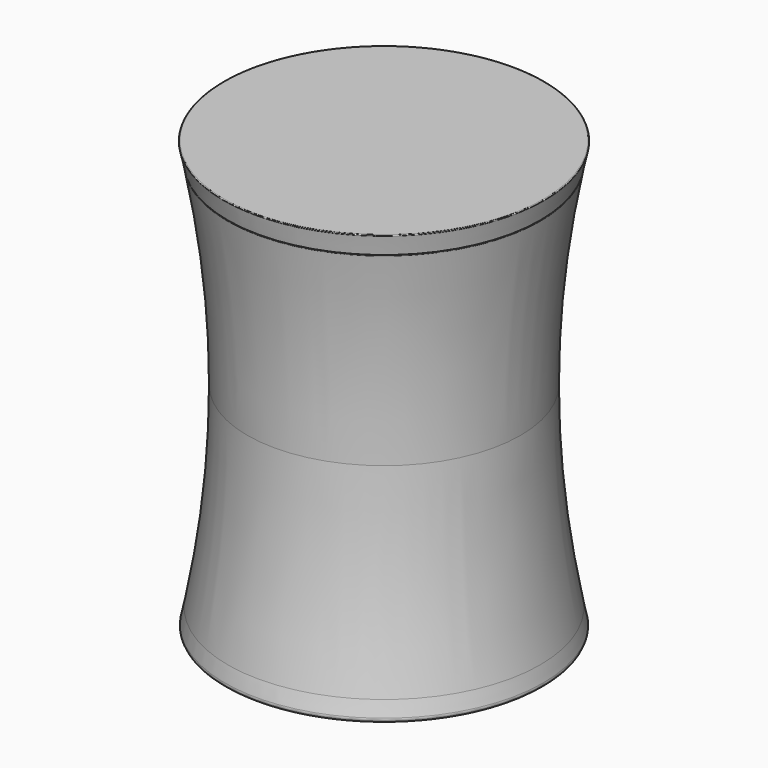
from build123d import *

# Parameters (mm, degrees)
F3_R   = 1.27
F3_2_R = 1.27
F4_R   = 0.254
F4_2_R = 0.254


with BuildPart() as f1:
    # F0 (on Front) → F1 (revolve)
    with BuildSketch(Plane.XZ):
        with BuildLine():
            ThreePointArc((-298.5270153843, 63.5), (-293.7684644137, 31.9083550971), (-292.1770153843, 0))
            ThreePointArc((-292.1770153843, 0), (-293.7684644137, -31.9083550971), (-298.5270153843, -63.5))
            Line((-298.5270153843, -63.5), (-292.0512974534, -63.5))
            ThreePointArc((-292.0512974534, -63.5), (-287.3868057179, -31.9021617107), (-285.8270153843, 0))
            ThreePointArc((-285.8270153843, 0), (-287.3868057179, 31.9021617107), (-292.0512974534, 63.5))
            Line((-292.0512974534, 63.5), (-298.5270153843, 63.5))
        make_face()
        with BuildLine():
            Line((-292.0512974534, -63.5), (-298.5270153843, -63.5))
            ThreePointArc((-298.5270153843, -63.5), (-299.1858800366, -66.6784160058), (-299.8768835847, -69.85))
            Line((-299.8768835847, -69.85), (-293.373803099, -69.85))
            ThreePointArc((-293.373803099, -69.85), (-292.6968065485, -66.6782789242), (-292.0512974534, -63.5))
        make_face()
        with BuildLine():
            Line((-290.7567545918, -63.5), (-292.0512974534, -63.5))
            ThreePointArc((-292.0512974534, -63.5), (-292.6968065485, -66.6782789242), (-293.373803099, -69.85))
            Line((-293.373803099, -69.85), (-292.0739230448, -69.85))
            ThreePointArc((-292.0739230448, -69.85), (-291.3996586239, -66.678252513), (-290.7567545918, -63.5))
        make_face()
        with BuildLine():
            Line((-247.8306591511, -63.5), (-290.7567545918, -63.5))
            ThreePointArc((-290.7567545918, -63.5), (-291.3996586239, -66.678252513), (-292.0739230448, -69.85))
            Line((-292.0739230448, -69.85), (-247.8306591511, -69.85))
            Line((-247.8306591511, -69.85), (-247.8306591511, -63.5))
        make_face()
    revolve(axis=Axis((-247.8306591511, 0, 0.039152801), (0, 0, -1)))

    # F3
    f3_edges = [f1.edges().sort_by_distance(p)[0] for p in [
        (-195.784435, 0, -69.85),
    ]]
    fillet(f3_edges, radius=F3_R)

    # F4#2
    f4_2_edges = [f1.edges().sort_by_distance(p)[0] for p in [
        (-197.134303, 0, 63.5),
    ]]
    fillet(f4_2_edges, radius=F4_2_R)


with BuildPart() as f2:
    # F0 (on Front) → F2 (revolve)
    with BuildSketch(Plane.XZ):
        with BuildLine():
            ThreePointArc((-299.8768835847, 69.85), (-299.1858800366, 66.6784160058), (-298.5270153843, 63.5))
            Line((-298.5270153843, 63.5), (-292.0512974534, 63.5))
            ThreePointArc((-292.0512974534, 63.5), (-292.6968065485, 66.6782789242), (-293.373803099, 69.85))
            Line((-293.373803099, 69.85), (-299.8768835847, 69.85))
        make_face()
        with BuildLine():
            ThreePointArc((-293.373803099, 69.85), (-292.6968065485, 66.6782789242), (-292.0512974534, 63.5))
            Line((-292.0512974534, 63.5), (-290.7567545918, 63.5))
            ThreePointArc((-290.7567545918, 63.5), (-291.3996586239, 66.678252513), (-292.0739230448, 69.85))
            Line((-292.0739230448, 69.85), (-293.373803099, 69.85))
        make_face()
        with BuildLine():
            ThreePointArc((-292.0739230448, 69.85), (-291.3996586239, 66.678252513), (-290.7567545918, 63.5))
            Line((-290.7567545918, 63.5), (-247.8306591511, 63.5))
            Line((-247.8306591511, 63.5), (-247.8306591511, 69.85))
            Line((-247.8306591511, 69.85), (-292.0739230448, 69.85))
        make_face()
        with BuildLine():
            Line((-247.8306591511, 63.5), (-290.7567545918, 63.5))
            ThreePointArc((-290.7567545918, 63.5), (-290.2667475585, 60.9618897899), (-289.7967405086, 58.42))
            Line((-289.7967405086, 58.42), (-247.8306591511, 58.42))
            Line((-247.8306591511, 58.42), (-247.8306591511, 63.5))
        make_face()
    revolve(axis=Axis((-247.8306591511, 0, 0.039152801), (0, 0, -1)))

    # F3#2
    f3_2_edges = [f2.edges().sort_by_distance(p)[0] for p in [
        (-205.864578, 0, 58.42),
    ]]
    fillet(f3_2_edges, radius=F3_2_R)

    # F4
    f4_edges = [f2.edges().sort_by_distance(p)[0] for p in [
        (-195.784435, 0, 69.85),
    ]]
    fillet(f4_edges, radius=F4_R)


solid = Compound([f1.part, f2.part])
